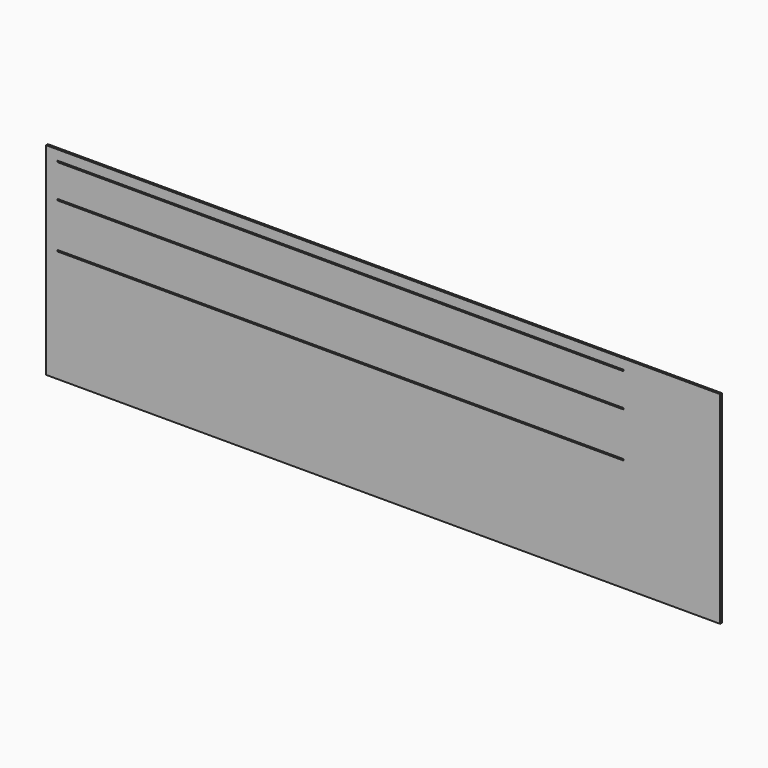
from build123d import *

# Parameters (mm, degrees)
F0_W     = 1500
F0_H     = 450
F0_W_2   = 1260
F0_H_2   = 3
F1_DEPTH = 5


with BuildPart() as f1:
    # F0 (on Front) → F1 (new body)
    with BuildSketch(Plane.XZ):
        with Locations((750, 225)):
            Rectangle(F0_W, F0_H)
        with Locations((655, 251.5)):
            Rectangle(F0_W_2, F0_H_2, mode=Mode.SUBTRACT)
        with Locations((655, 351.5)):
            Rectangle(F0_W_2, F0_H_2, mode=Mode.SUBTRACT)
        with Locations((655, 426.5)):
            Rectangle(F0_W_2, F0_H_2, mode=Mode.SUBTRACT)
    extrude(amount=F1_DEPTH)


solid = f1.part
